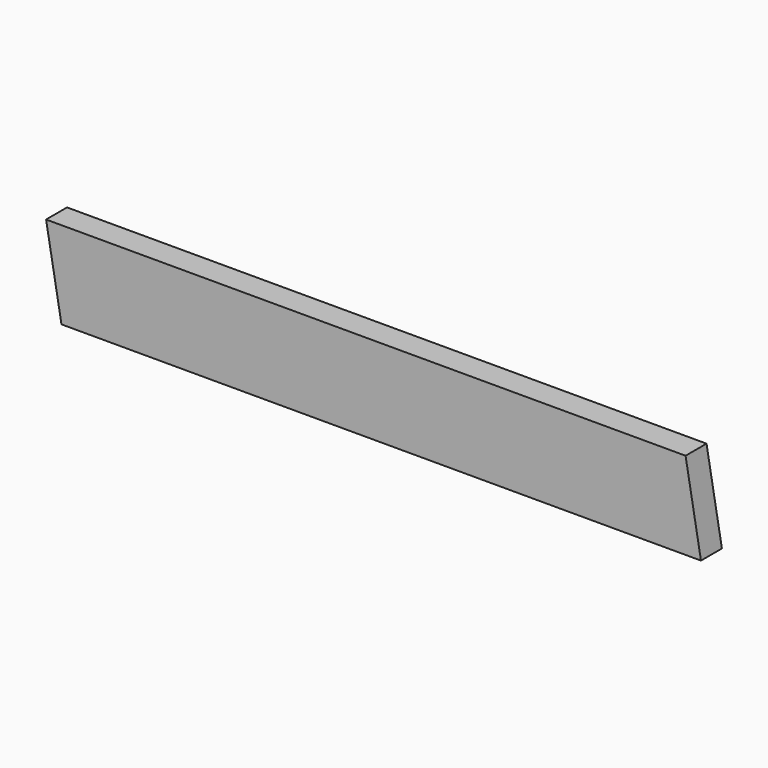
from build123d import *

# Parameters (mm, degrees)
F0_W     = 476.25
F0_H     = 63.5
F1_DEPTH = 19.05
F3_DEPTH = 25.4
F5_DEPTH = 25.4


with BuildPart() as f1:
    # F0 (on Front) → F1 (new body)
    with BuildSketch(Plane.XZ):
        with Locations((-238.125, 31.75)):
            Rectangle(F0_W, F0_H)
    extrude(amount=F1_DEPTH)

    # F2 (on face) → F3 (cut)
    with BuildSketch(Plane.XZ.offset(19.05)):
        Polygon((-465.053237, 0), (-476.25, 63.5), (-476.25, 0), align=None)
    extrude(amount=-F3_DEPTH, mode=Mode.SUBTRACT)

    # F4 (on face) → F5 (cut)
    with BuildSketch(Plane.XZ.offset(19.05)):
        Polygon((-11.196763, 63.5), (0, 0), (0, 63.5), align=None)
    extrude(amount=-F5_DEPTH, mode=Mode.SUBTRACT)


solid = f1.part
